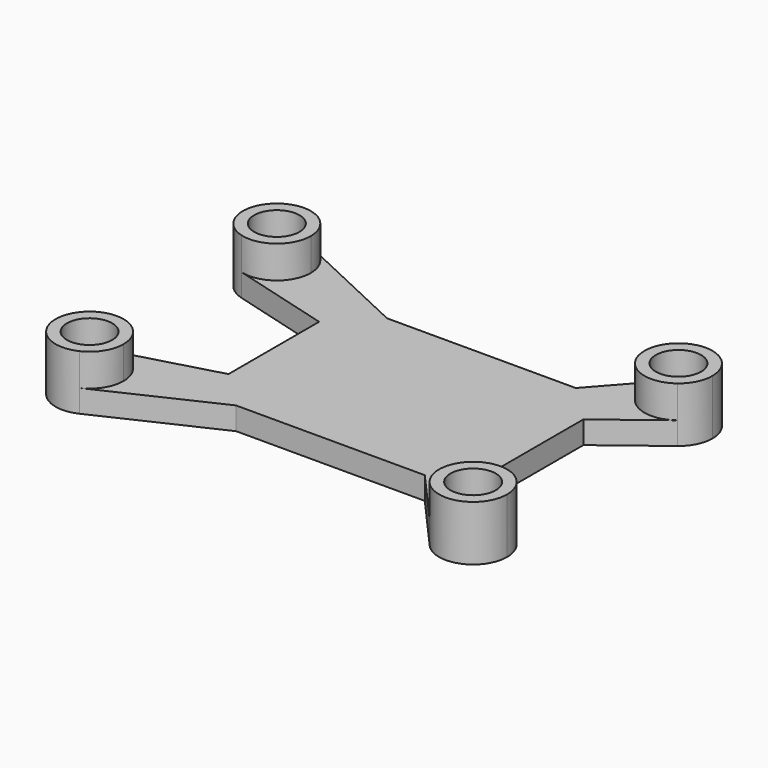
from build123d import *

# Parameters (mm, degrees)
F1_DEPTH = 3
F0_R     = 3
F2_DEPTH = 7.3


with BuildPart() as f1:
    # F0 (on Top) → F1 (new body)
    with BuildSketch(Plane.XY):
        Polygon((-10, 12.5), (-35, 12.5), (-40, 12.5), (-40, 7.5), (-40, -7.5), (-40, -12.5), (-35, -12.5), (-10, -12.5), (-5, -12.5), (-5, -7.5), (-5, 7.5), (-5, 12.5), align=None)
        with BuildLine():
            Line((-3.367983, 19.984407), (-10, 12.5))
            Line((-10, 12.5), (-5, 12.5))
            Line((-5, 12.5), (-5, 7.5))
            Line((-5, 7.5), (2.73688, 13.427958))
            ThreePointArc((2.73688, 13.427958), (-3.293377, 13.93346), (-3.367983, 19.984407))
        make_face()
        with BuildLine():
            ThreePointArc((-50.089803, 19.57445), (-48.202245, 17.91393), (-47.5, 15.5))
            ThreePointArc((-47.5, 15.5), (-49.276462, 11.917774), (-53.203264, 11.163855))
            Line((-53.203264, 11.163855), (-40, 7.5))
            Line((-40, 7.5), (-40, 12.5))
            Line((-40, 12.5), (-35, 12.5))
            Line((-35, 12.5), (-50.089803, 19.57445))
        make_face()
        with BuildLine():
            Line((-40, -12.5), (-40, -7.5))
            Line((-40, -7.5), (-53.203264, -11.163855))
            ThreePointArc((-53.203264, -11.163855), (-49.276462, -11.917774), (-47.5, -15.5))
            ThreePointArc((-47.5, -15.5), (-48.202245, -17.91393), (-50.089803, -19.57445))
            Line((-50.089803, -19.57445), (-35, -12.5))
            Line((-35, -12.5), (-40, -12.5))
        make_face()
        with BuildLine():
            Line((2.73688, -13.427958), (-5, -7.5))
            Line((-5, -7.5), (-5, -12.5))
            Line((-5, -12.5), (-10, -12.5))
            Line((-10, -12.5), (-3.367983, -19.984407))
            ThreePointArc((-3.367983, -19.984407), (-3.293377, -13.93346), (2.73688, -13.427958))
        make_face()
    extrude(amount=F1_DEPTH)

    # F0 (on Top) → F2 (join)
    with BuildSketch(Plane.XY):
        with BuildLine():
            ThreePointArc((-47.5, -15.5), (-49.276462, -11.917774), (-53.203264, -11.163855))
            ThreePointArc((-53.203264, -11.163855), (-56.220127, -17.06222), (-50.089803, -19.57445))
            ThreePointArc((-50.089803, -19.57445), (-48.202245, -17.91393), (-47.5, -15.5))
        make_face()
        with Locations((-52, -15.5)):
            Circle(F0_R, mode=Mode.SUBTRACT)
        with BuildLine():
            ThreePointArc((-53.203264, 11.163855), (-49.276462, 11.917774), (-47.5, 15.5))
            ThreePointArc((-47.5, 15.5), (-48.202245, 17.91393), (-50.089803, 19.57445))
            ThreePointArc((-50.089803, 19.57445), (-56.220127, 17.06222), (-53.203264, 11.163855))
        make_face()
        with Locations((-52, 15.5)):
            Circle(F0_R, mode=Mode.SUBTRACT)
        with BuildLine():
            ThreePointArc((4.5, -17), (4.035218, -15.008262), (2.73688, -13.427958))
            ThreePointArc((2.73688, -13.427958), (-3.293377, -13.93346), (-3.367983, -19.984407))
            ThreePointArc((-3.367983, -19.984407), (1.595944, -21.207489), (4.5, -17))
        make_face()
        with Locations((0, -17)):
            Circle(F0_R, mode=Mode.SUBTRACT)
        with BuildLine():
            ThreePointArc((4.5, 17), (1.595944, 21.207489), (-3.367983, 19.984407))
            ThreePointArc((-3.367983, 19.984407), (-3.293377, 13.93346), (2.73688, 13.427958))
            ThreePointArc((2.73688, 13.427958), (4.035218, 15.008262), (4.5, 17))
        make_face()
        with Locations((0, 17)):
            Circle(F0_R, mode=Mode.SUBTRACT)
    extrude(amount=F2_DEPTH)


solid = f1.part
